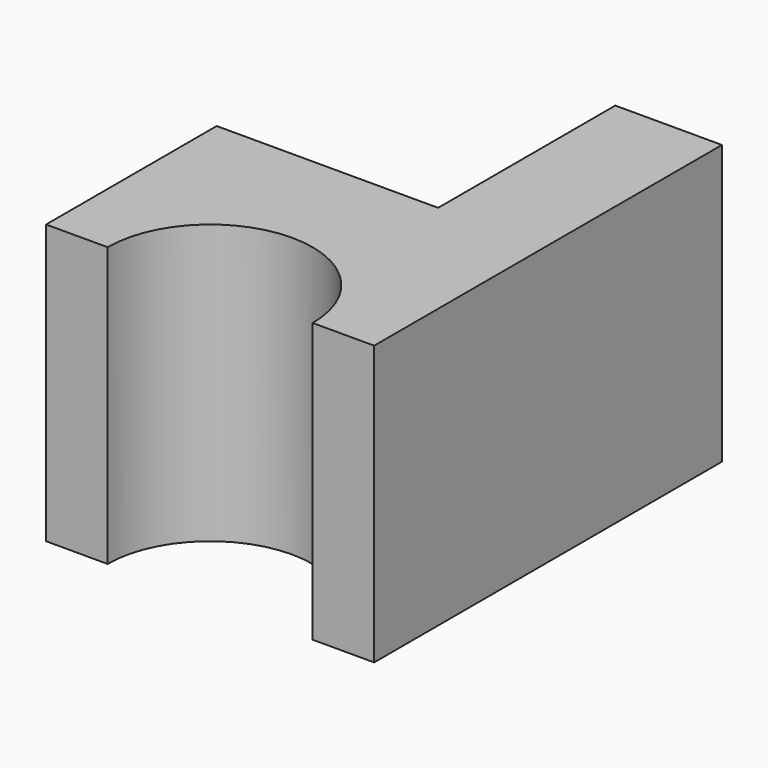
from build123d import *

# Parameters (mm, degrees)
F0_W     = 40
F0_H     = 34
F1_DEPTH = 26.5
F3_DEPTH = 34.001
F5_DEPTH = 27


with BuildPart() as f1:
    # F0 (on Front) → F1 (new body, symmetric)
    with BuildSketch(Plane.XZ):
        Rectangle(F0_W, F0_H)
    extrude(amount=F1_DEPTH, both=True)

    # F2 (on face) → F3 (cut, through all)
    with BuildSketch(Plane.XY.offset(17)):
        with BuildLine():
            Line((-12.5, -26.5), (12.5, -26.5))
            ThreePointArc((12.5, -26.5), (0, -14), (-12.5, -26.5))
        make_face()
    extrude(amount=-F3_DEPTH, mode=Mode.SUBTRACT)

    # F4 (on face) → F5 (cut)
    with BuildSketch(Plane(origin=(0, 26.5, 0), x_dir=(-1, 0, 0), z_dir=(0, 1, 0))):
        with BuildLine():
            Line((20, 17), (-7, 17))
            ThreePointArc((-7, 17), (0.908116908, -2.091883092), (20, -10))
            Line((20, -10), (20, 17))
        make_face()
    extrude(amount=-F5_DEPTH, mode=Mode.SUBTRACT)


solid = f1.part
